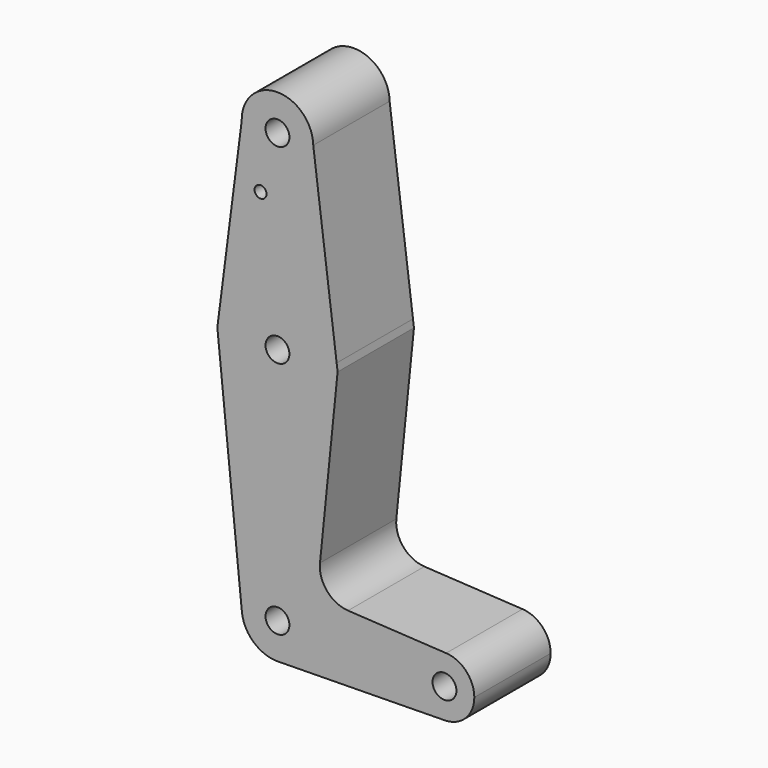
from build123d import *

# Parameters (mm, degrees)
F0_R     = 3.175
F0_R_2   = 1.5875
F1_DEPTH = 25.4


with BuildPart() as f1:
    # F0 (on Front) → F1 (new body)
    with BuildSketch(Plane.XZ):
        with BuildLine():
            ThreePointArc((-9.5212677962, 50.5333831334), (0.1333214938, 41.2759330967), (9.525, 50.8))
            ThreePointArc((9.525, 50.8), (9.5245866886, 50.8887322456), (9.5233467903, 50.9774567906))
            ThreePointArc((9.5233467903, 50.9774567906), (-0.2220392618, 60.3224116465), (-9.5212677962, 50.5333831334))
        make_face()
        with Locations((0, 50.8)):
            Circle(F0_R, mode=Mode.SUBTRACT)
        with BuildLine():
            ThreePointArc((9.5233467903, 50.9774567906), (9.5245866886, 50.8887322456), (9.525, 50.8))
            ThreePointArc((9.525, 50.8), (0.1333214938, 41.2759330967), (-9.5212677962, 50.5333831334))
            Line((-9.5212677962, 50.5333831334), (-15.7459155576, 2.0203386483))
            ThreePointArc((-15.7459155576, 2.0203386483), (0.0094196916, 15.8749972053), (15.7483020715, 2.0016510345))
            Line((15.7483020715, 2.0016510345), (9.5233467903, 50.9774567906))
        make_face()
        with Locations((-4.5118420385, 35.5011411011)):
            Circle(F0_R_2, mode=Mode.SUBTRACT)
        with BuildLine():
            Line((16.0027172462, 0), (15.7483020715, 2.0016510345))
            ThreePointArc((15.7483020715, 2.0016510345), (15.8432938555, 1.0028284037), (15.875, 0))
            ThreePointArc((15.875, 0), (-1.0122291054, -15.8426960218), (-15.7459155576, 2.0203386483))
            Line((-15.7459155576, 2.0203386483), (-16.0051426702, 0))
            Line((-16.0051426702, 0), (-9.4765186485, -64.4598017006))
            ThreePointArc((-9.4765186485, -64.4598017006), (-0.4805126809, -53.9871280591), (9.525, -63.5))
            ThreePointArc((9.525, -63.5), (6.8332102578, -70.135726228), (0.2792545778, -73.0209055179))
            Line((0.2792545778, -73.0209055179), (44.5663685805, -72.371559688))
            ThreePointArc((44.5663685805, -72.371559688), (36.5142286988, -64.2692621997), (44.8974605673, -56.5100351311))
            Line((44.8974605673, -56.5100351311), (18.7770072433, -55.0352019004))
            ThreePointArc((18.7770072433, -55.0352019004), (13.1792262434, -52.2602095266), (11.3154196835, -46.2968245897))
            Line((11.3154196835, -46.2968245897), (16.0027172462, 0))
        make_face()
        with BuildLine():
            ThreePointArc((15.875, 0), (15.8432938555, 1.0028284037), (15.7483020715, 2.0016510345))
            ThreePointArc((15.7483020715, 2.0016510345), (0.0094196916, 15.8749972053), (-15.7459155576, 2.0203386483))
            ThreePointArc((-15.7459155576, 2.0203386483), (-1.0122291054, -15.8426960218), (15.875, 0))
        make_face()
        Circle(F0_R, mode=Mode.SUBTRACT)
        with BuildLine():
            ThreePointArc((9.525, -63.5), (-0.4805126809, -53.9871280591), (-9.4765186485, -64.4598017006))
            ThreePointArc((-9.4765186485, -64.4598017006), (-6.3868424829, -70.566390033), (0, -73.025))
            Line((0, -73.025), (0.2792545778, -73.0209055179))
            ThreePointArc((0.2792545778, -73.0209055179), (6.8332102578, -70.135726228), (9.525, -63.5))
        make_face()
        with Locations((0, -63.5)):
            Circle(F0_R, mode=Mode.SUBTRACT)
        with BuildLine():
            Line((0.2792545778, -73.0209055179), (0, -73.025))
            ThreePointArc((0, -73.025), (0.1396422966, -73.0239763245), (0.2792545778, -73.0209055179))
        make_face()
        with BuildLine():
            ThreePointArc((52.3875, -64.434912751), (50.2186924213, -58.9827485936), (44.8974605673, -56.5100351311))
            ThreePointArc((44.8974605673, -56.5100351311), (36.5142286988, -64.2692621997), (44.5663685805, -72.371559688))
            ThreePointArc((44.5663685805, -72.371559688), (50.1036528837, -70.0062784113), (52.3875, -64.434912751))
        make_face()
        with Locations((44.45, -64.434912751)):
            Circle(F0_R, mode=Mode.SUBTRACT)
    extrude(amount=F1_DEPTH)


solid = f1.part
